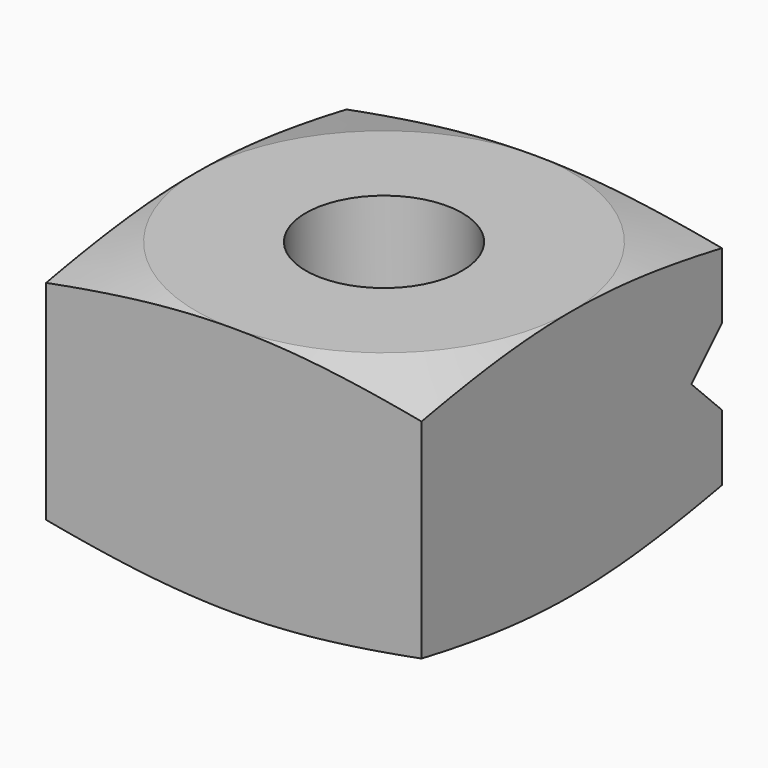
from build123d import *

# Parameters (mm, degrees)
F0_W     = 19.05
F0_H     = 19.05
F0_R     = 3.96875
F1_DEPTH = 6.35
F6_DEPTH = 19.051


with BuildPart() as f1:
    # F0 (on Top) → F1 (new body)
    with BuildSketch(Plane.XY):
        Rectangle(F0_W, F0_H)
        Circle(F0_R, mode=Mode.SUBTRACT)
    extrude(amount=F1_DEPTH)

    # F4: sweep along a path in F2
    with BuildLine(Plane(origin=(0, 0, 0), x_dir=(1, 0, 0), z_dir=(0, 0, -1))) as f4_path:
        CenterArc((0, 0), 9.525, 0, 360)
    # F3 (on Right) → F4 (sweep, cut)
    with BuildSketch(Plane.YZ):
        Polygon((-20.809421, 0), (-9.525, 0), (-20.809421, 3.023652), align=None)
    sweep(path=f4_path.line, mode=Mode.SUBTRACT)

    # F5 (on face) → F6 (cut, through all)
    with BuildSketch(Plane(origin=(-9.525, 0, 0), x_dir=(0, -1, 0), z_dir=(-1, 0, 0))):
        Polygon((-7.59023, 6.35), (-9.525, 6.35), (-9.525, 4.41523), align=None)
    extrude(amount=-F6_DEPTH, mode=Mode.SUBTRACT)

    # F7: F1 across face


with BuildPart() as f1_1:
    add(f1.part)
    add(f1.part.mirror(Plane(origin=(0, -1.140472, 6.35), x_dir=(1, 0, 0), z_dir=(0, 0, 1))))


solid = f1_1.part
